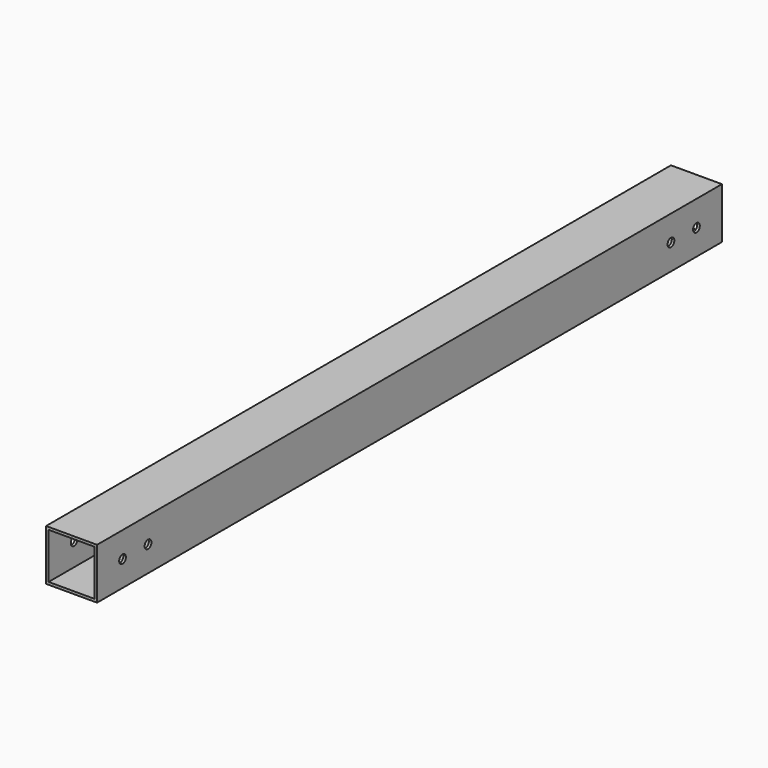
from build123d import *

# Parameters (mm, degrees)
SKETCH_W    = 40
SKETCH_H    = 40
SKETCH_W_2  = 36
SKETCH_H_2  = 36
PAD_DEPTH   = 613
SKETCH001_R = 3.3
HOLE_DEPTH  = 40.001


with BuildPart() as part:
    # Sketch → Pad (new body)
    with BuildSketch(Plane.XZ):
        Rectangle(SKETCH_W, SKETCH_H)
        Rectangle(SKETCH_W_2, SKETCH_H_2, mode=Mode.SUBTRACT)
    extrude(amount=PAD_DEPTH)

    # Sketch001 → Hole (cut, through all)
    with BuildSketch(Plane(origin=(20, 0, 0), x_dir=(0, 0, 1), z_dir=(1, 0, 0))):
        with Locations((0, 25)):
            Circle(SKETCH001_R)
        with Locations((0, 50)):
            Circle(SKETCH001_R)
        with Locations((0, 588)):
            Circle(SKETCH001_R)
        with Locations((0, 563)):
            Circle(SKETCH001_R)
    extrude(amount=-HOLE_DEPTH, mode=Mode.SUBTRACT)


solid = part.part
